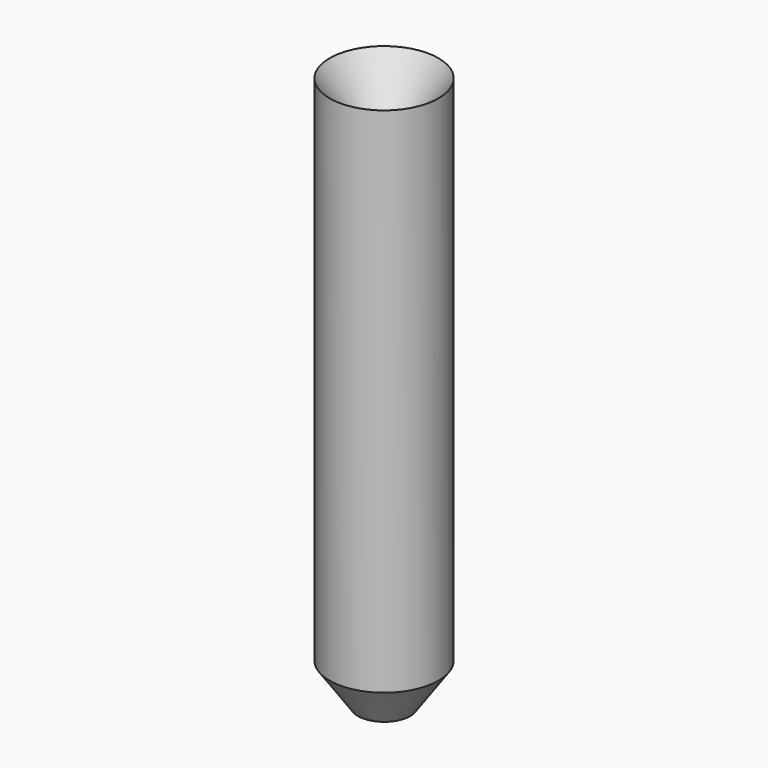
from build123d import *

# Parameters (mm, degrees)
CYLINDER001_R     = 0.22
CYLINDER001_DEPTH = 12.7
CYLINDER_R        = 1.25
CYLINDER_DEPTH    = 11.771704


with BuildPart() as cone001:
    # Cone001 → Cone001 (revolve)
    with BuildSketch(Plane(origin=(0, 0, 11.229008), x_dir=(1, 0, 0), z_dir=(0, -1, 0))):
        Polygon((0, 0), (0.22, 0), (1.25, 1.470992), (0, 1.470992), align=None)
    revolve(axis=Axis((0, 0, 11.229008), (0, 0, 1)))


with BuildPart() as fusion001:
    # Cylinder001 → Cylinder001 (new body)
    with BuildSketch(Plane.XY):
        Circle(CYLINDER001_R)
    extrude(amount=CYLINDER001_DEPTH)

    # Fusion001: union Cone001
    add(cone001.part)


with BuildPart() as cone:
    # Cone → Cone (revolve)
    with BuildSketch(Plane.XZ):
        Polygon((0, 0), (0.6, 0), (1.25, 0.928296), (0, 0.928296), align=None)
    revolve(axis=Axis((0, 0, 0), (0, 0, 1)))


with BuildPart() as obj1:
    # Cylinder → Cylinder (new body)
    with BuildSketch(Plane.XY.offset(0.928296)):
        Circle(CYLINDER_R)
    extrude(amount=CYLINDER_DEPTH)

    # Fusion: union Cone
    add(cone.part)

    # Cut: cut Fusion001
    add(fusion001.part, mode=Mode.SUBTRACT)


solid = obj1.part
